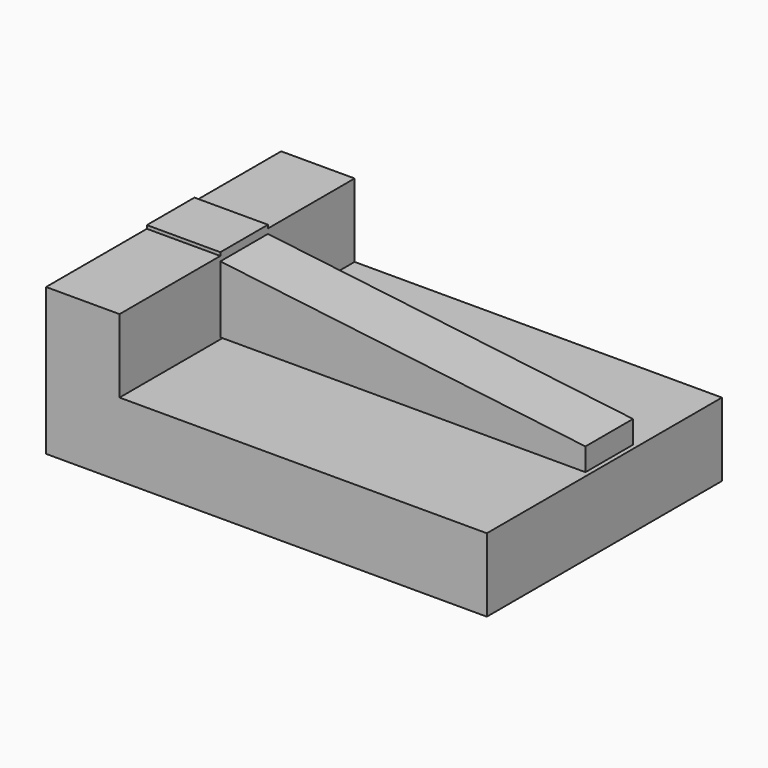
from build123d import *

# Parameters (mm, degrees)
F1_DEPTH = 101.6
F2_W     = 20.5739997327
F2_H     = 25.399999693
F3_DEPTH = 151.638
F4_DEPTH = 2.286
F6_DEPTH = 32.512
F7_DEPTH = 2.794


with BuildPart() as f1:
    # F0 (on Front) → F1 (new body)
    with BuildSketch(Plane.XZ):
        Polygon((0, 50.8), (0, 0), (152.4, 0), (152.4, 25.4), (25.4, 25.4), (25.4, 50.8), align=None)
    extrude(amount=F1_DEPTH)

    # F2 (on Right) → F3 (join)
    with BuildSketch(Plane.YZ):
        with Locations((-47.7519985288, 38.735001348)):
            Rectangle(F2_W, F2_H)
    extrude(amount=F3_DEPTH)

    # F4 (cut): a face of the model
    f4_faces = [f1.faces().sort_by_distance(p)[0] for p in [
        (75.819, -47.7519985288, 51.4350011945),
    ]]
    extrude(f4_faces, amount=-F4_DEPTH, mode=Mode.SUBTRACT)

    # F5 (on face) → F6 (cut)
    with BuildSketch(Plane.XZ.offset(58.0389983952)):
        Polygon((151.638, 49.1490011945), (25.4, 49.1490011945), (151.638, 33.8758528233), align=None)
    extrude(amount=-F6_DEPTH, mode=Mode.SUBTRACT)

    # F7 (add): a face of the model
    f7_faces = [f1.faces().sort_by_distance(p)[0] for p in [
        (12.7, -47.7519985288, 49.1490011945),
    ]]
    extrude(f7_faces, amount=F7_DEPTH)


solid = f1.part
